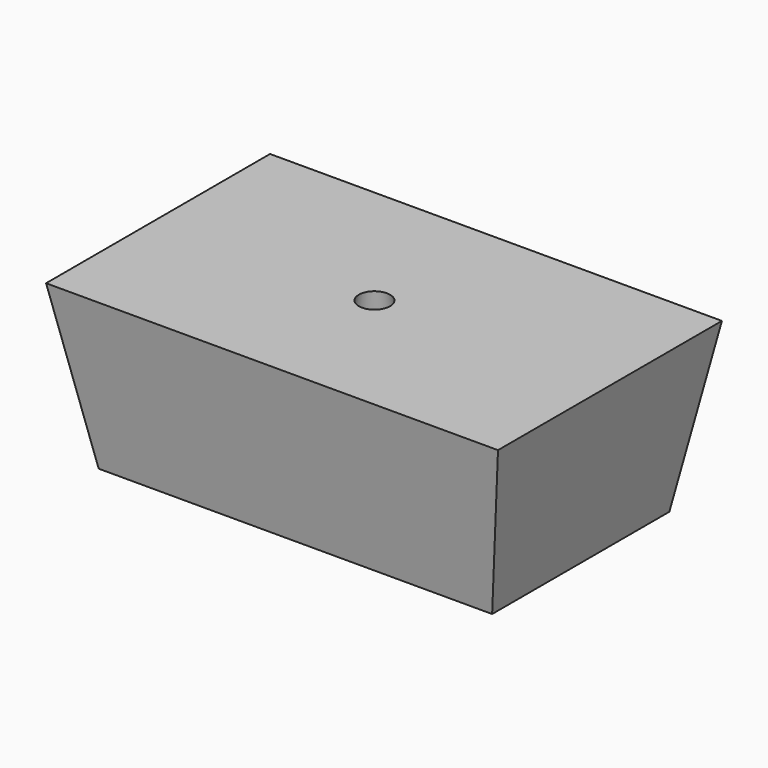
from build123d import *

# Parameters (mm, degrees)
F0_W     = 225.6237479062
F0_H     = 127
F0_R     = 25.7058012272
F1_DEPTH = 94.996
F1_TAPER = -10


with BuildPart() as f1:
    # F0 (on Top) → F1 (new body)
    with BuildSketch(Plane.XY):
        with Locations((23.1080837548, -16.8385943398)):
            Rectangle(F0_W, F0_H)
        with Locations((18.8035357351, -18.2947983858)):
            Circle(F0_R, mode=Mode.SUBTRACT)
    extrude(amount=F1_DEPTH, taper=F1_TAPER)


solid = f1.part
